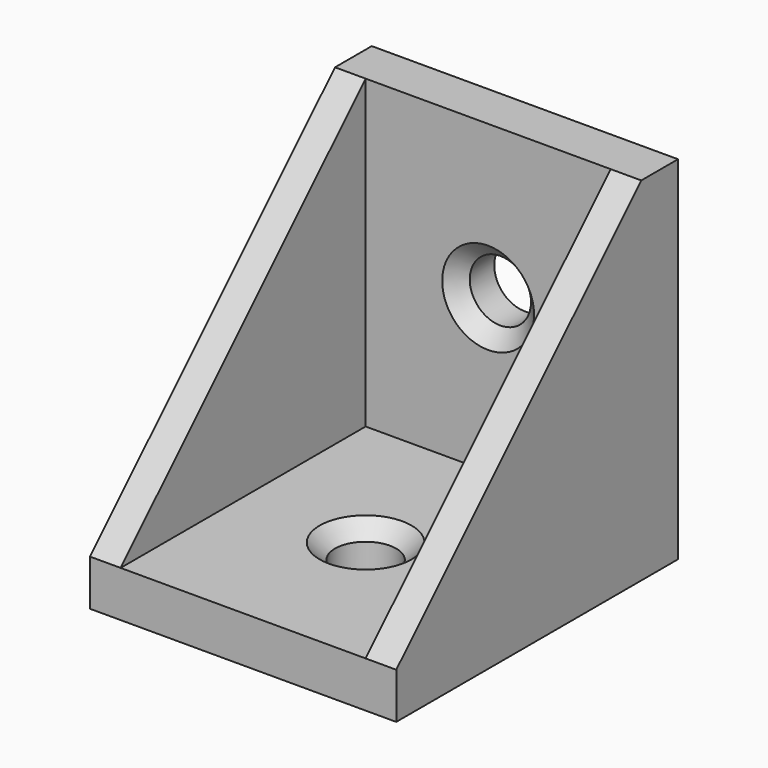
from build123d import *

# Parameters (mm, degrees)
F0_W     = 20
F0_H     = 23
F0_R     = 2
F1_DEPTH = 3
F2_W     = 20
F2_H     = 3
F3_DEPTH = 20
F4_R     = 2
F5_DEPTH = 3.001
F7_DEPTH = 2
F9_DEPTH = 2
F10_SIZE = 1


with BuildPart() as f1:
    # F0 (on Top) → F1 (new body)
    with BuildSketch(Plane.XY):
        with Locations((10, -11.5)):
            Rectangle(F0_W, F0_H)
        with Locations((10, -13)):
            Circle(F0_R, mode=Mode.SUBTRACT)
    extrude(amount=F1_DEPTH)

    # F2 (on face) → F3 (join)
    with BuildSketch(Plane.XY.offset(3)):
        with Locations((10, -1.5)):
            Rectangle(F2_W, F2_H)
    extrude(amount=F3_DEPTH)

    # F4 (on face) → F5 (cut, through all)
    with BuildSketch(Plane.XZ.offset(3)):
        with Locations((10, 13)):
            Circle(F4_R)
    extrude(amount=-F5_DEPTH, mode=Mode.SUBTRACT)

    # F6 (on face) → F7 (join)
    with BuildSketch(Plane.YZ.offset(20)):
        Polygon((-3, 3), (-3, 23), (-23, 3), align=None)
    extrude(amount=-F7_DEPTH)

    # F8 (on face) → F9 (join)
    with BuildSketch(Plane(origin=(0, 0, 0), x_dir=(0, -1, 0), z_dir=(-1, 0, 0))):
        Polygon((23, 3), (3, 23), (3, 3), align=None)
    extrude(amount=-F9_DEPTH)

    # F10
    f10_edges = [f1.edges().sort_by_distance(p)[0] for p in [
        (8, -13, 3),
        (8, -3, 13),
    ]]
    chamfer(f10_edges, length=F10_SIZE)


solid = f1.part
